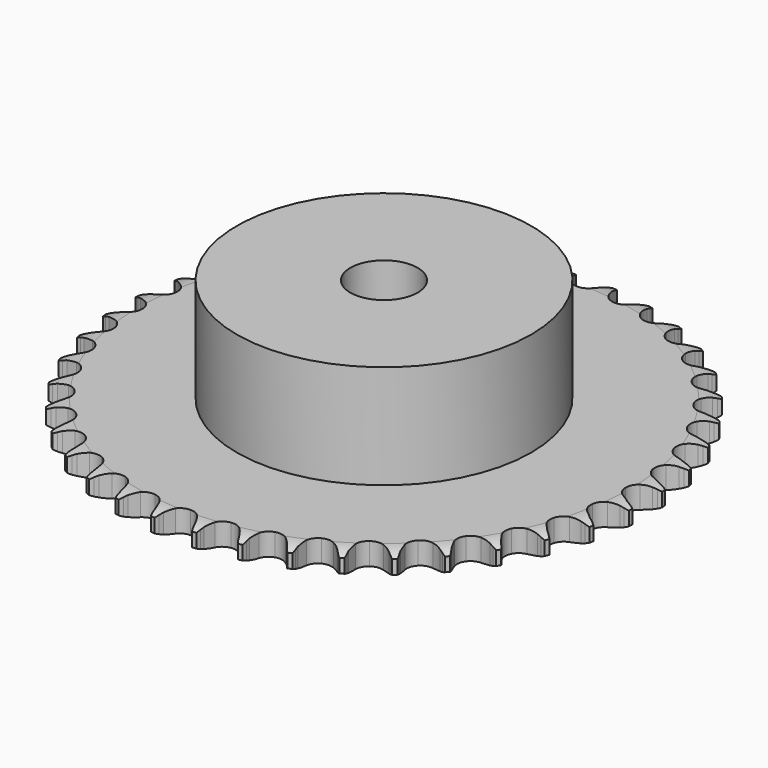
from build123d import *

# Parameters (mm, degrees)
PAD_DEPTH         = 5.3
SKETCH001_R       = 35
PAD001_DEPTH      = 30
SKETCH002_R       = 8
POCKET_DEPTH      = 0.001
POCKET_DEPTH_BACK = 30.001


with BuildPart() as part:
    # Sprocket → Pad (new body)
    with BuildSketch(Plane.XY):
        with BuildLine():
            ThreePointArc((-4.986853, 63.363969), (-4.438526, 62.600159), (-4.038812, 61.749103))
            Line((-4.038812, 61.749103), (-3.729238, 60.893914))
            ThreePointArc((-3.729238, 60.893914), (-3.239135, 59.795706), (-2.595634, 58.779751))
            ThreePointArc((-2.595634, 58.779751), (-1.453357, 57.817013), (0, 57.471444))
            ThreePointArc((0, 57.471444), (1.453357, 57.817013), (2.595634, 58.779751))
            ThreePointArc((2.595634, 58.779751), (3.239135, 59.795706), (3.729238, 60.893914))
            Line((3.729238, 60.893914), (4.038812, 61.749103))
            ThreePointArc((4.038812, 61.749103), (4.438526, 62.600159), (4.986853, 63.363969))
            ThreePointArc((4.986853, 63.363969), (5.408942, 62.523786), (5.670601, 61.620678))
            Line((5.670601, 61.620678), (5.842582, 60.72759))
            ThreePointArc((5.842582, 60.72759), (6.154853, 59.566235), (6.631502, 58.462122))
            ThreePointArc((6.631502, 58.462122), (7.60911, 57.332544), (8.990515, 56.763875))
            ThreePointArc((8.990515, 56.763875), (10.480037, 56.877834), (11.758856, 57.650028))
            Line((11.758856, 57.650028), (13.209231, 59.560827))
            ThreePointArc((13.209231, 59.560827), (13.418101, 59.964962), (13.648775, 60.35706))
            ThreePointArc((13.648775, 60.35706), (14.176703, 61.135109), (14.837765, 61.803738))
            ThreePointArc((14.837765, 61.803738), (15.123224, 60.907869), (15.240384, 59.974948))
            Line((15.240384, 59.974948), (15.270538, 59.065951))
            ThreePointArc((15.270538, 59.065951), (15.397289, 57.870044), (15.695348, 56.70496))
            ThreePointArc((15.695348, 56.70496), (16.484215, 55.436358), (17.759653, 54.658591))
            ThreePointArc((17.759653, 54.658591), (19.248664, 54.538135), (20.632536, 55.100771))
            Line((20.632536, 55.100771), (22.36397, 56.761156))
            ThreePointArc((22.36397, 56.761156), (22.633488, 57.12764), (22.922661, 57.478825))
            ThreePointArc((22.922661, 57.478825), (23.565802, 58.164709), (24.323322, 58.721694))
            ThreePointArc((24.323322, 58.721694), (24.465122, 57.792199), (24.434898, 56.852436))
            Line((24.434898, 56.852436), (24.322483, 55.949913))
            ThreePointArc((24.322483, 55.949913), (24.260592, 54.748901), (24.372722, 53.551535))
            ThreePointArc((24.372722, 53.551535), (24.953424, 52.175145), (26.09149, 51.207432))
            ThreePointArc((26.09149, 51.207432), (27.543325, 50.855525), (28.998175, 51.194749))
            Line((28.998175, 51.194749), (30.968033, 52.563836))
            ThreePointArc((30.968033, 52.563836), (31.291565, 52.883647), (31.632114, 53.185271))
            ThreePointArc((31.632114, 53.185271), (32.374633, 53.762101), (33.209958, 54.193726))
            ThreePointArc((33.209958, 54.193726), (33.204607, 53.253493), (33.027745, 52.330028))
            Line((33.027745, 52.330028), (32.775528, 51.456202))
            ThreePointArc((32.775528, 51.456202), (32.526519, 50.279659), (32.449959, 49.079493))
            ThreePointArc((32.449959, 49.079493), (32.808197, 47.629207), (33.780867, 46.495375))
            ThreePointArc((33.780867, 46.495375), (35.159777, 45.920684), (36.649783, 46.028142))
            Line((36.649783, 46.028142), (38.809561, 47.07222))
            ThreePointArc((38.809561, 47.07222), (39.179138, 47.337482), (39.56268, 47.58212))
            ThreePointArc((39.56268, 47.58212), (40.386293, 48.035692), (41.278855, 48.33133))
            ThreePointArc((41.278855, 48.33133), (41.126485, 47.403509), (40.807338, 46.519081))
            Line((40.807338, 46.519081), (40.42153, 45.695469))
            ThreePointArc((40.42153, 45.695469), (39.991535, 44.572364), (39.728171, 43.398951))
            ThreePointArc((39.728171, 43.398951), (39.855123, 41.91048), (40.638448, 40.638448))
            ThreePointArc((40.638448, 40.638448), (41.91048, 39.855123), (43.398951, 39.728171))
            Line((43.398951, 39.728171), (45.695469, 40.42153))
            ThreePointArc((45.695469, 40.42153), (46.101992, 40.625712), (46.519081, 40.807338))
            ThreePointArc((46.519081, 40.807338), (47.403509, 41.126485), (48.33133, 41.278855))
            ThreePointArc((48.33133, 41.278855), (48.035692, 40.386293), (47.58212, 39.56268))
            Line((47.58212, 39.56268), (47.07222, 38.809561))
            ThreePointArc((47.07222, 38.809561), (46.471827, 37.76755), (46.028142, 36.649783))
            ThreePointArc((46.028142, 36.649783), (45.920684, 35.159777), (46.495375, 33.780867))
            ThreePointArc((46.495375, 33.780867), (47.629207, 32.808197), (49.079493, 32.449959))
            Line((49.079493, 32.449959), (51.456202, 32.775528))
            ThreePointArc((51.456202, 32.775528), (51.889661, 32.913601), (52.330028, 33.027745))
            ThreePointArc((52.330028, 33.027745), (53.253493, 33.204607), (54.193726, 33.209958))
            ThreePointArc((54.193726, 33.209958), (53.762101, 32.374633), (53.185271, 31.632114))
            Line((53.185271, 31.632114), (52.563836, 30.968033))
            ThreePointArc((52.563836, 30.968033), (51.807828, 30.032774), (51.194749, 28.998175))
            ThreePointArc((51.194749, 28.998175), (50.855525, 27.543325), (51.207432, 26.09149))
            ThreePointArc((51.207432, 26.09149), (52.175145, 24.953424), (53.551535, 24.372722))
            Line((53.551535, 24.372722), (55.949913, 24.322483))
            ThreePointArc((55.949913, 24.322483), (56.399635, 24.391049), (56.852436, 24.434898))
            ThreePointArc((56.852436, 24.434898), (57.792199, 24.465122), (58.721694, 24.323322))
            ThreePointArc((58.721694, 24.323322), (58.164709, 23.565802), (57.478825, 22.922661))
            Line((57.478825, 22.922661), (56.761156, 22.36397))
            ThreePointArc((56.761156, 22.36397), (55.868148, 21.55849), (55.100771, 20.632536))
            ThreePointArc((55.100771, 20.632536), (54.538135, 19.248664), (54.658591, 17.759653))
            ThreePointArc((54.658591, 17.759653), (55.436358, 16.484215), (56.70496, 15.695348))
            Line((56.70496, 15.695348), (59.065951, 15.270538))
            ThreePointArc((59.065951, 15.270538), (59.520863, 15.267908), (59.974948, 15.240384))
            ThreePointArc((59.974948, 15.240384), (60.907869, 15.123224), (61.803738, 14.837765))
            ThreePointArc((61.803738, 14.837765), (61.135109, 14.176703), (60.35706, 13.648775))
            Line((60.35706, 13.648775), (59.560827, 13.209231))
            ThreePointArc((59.560827, 13.209231), (58.55281, 12.553366), (57.650028, 11.758856))
            ThreePointArc((57.650028, 11.758856), (56.877834, 10.480037), (56.763875, 8.990515))
            ThreePointArc((56.763875, 8.990515), (57.332544, 7.60911), (58.462122, 6.631502))
            Line((58.462122, 6.631502), (60.72759, 5.842582))
            ThreePointArc((60.72759, 5.842582), (61.176489, 5.76882), (61.620678, 5.670601))
            ThreePointArc((61.620678, 5.670601), (62.523786, 5.408942), (63.363969, 4.986853))
            ThreePointArc((63.363969, 4.986853), (62.600159, 4.438526), (61.749103, 4.038812))
            Line((61.749103, 4.038812), (60.893914, 3.729238))
            ThreePointArc((60.893914, 3.729238), (59.795706, 3.239135), (58.779751, 2.595634))
            ThreePointArc((58.779751, 2.595634), (57.817013, 1.453357), (57.471444, 0))
            ThreePointArc((57.471444, 0), (57.817013, -1.453357), (58.779751, -2.595634))
            Line((58.779751, -2.595634), (60.893914, -3.729238))
            ThreePointArc((60.893914, -3.729238), (61.325747, -3.872315), (61.749103, -4.038812))
            ThreePointArc((61.749103, -4.038812), (62.600159, -4.438526), (63.363969, -4.986853))
            ThreePointArc((63.363969, -4.986853), (62.523786, -5.408942), (61.620678, -5.670601))
            Line((61.620678, -5.670601), (60.72759, -5.842582))
            ThreePointArc((60.72759, -5.842582), (59.566235, -6.154853), (58.462122, -6.631502))
            ThreePointArc((58.462122, -6.631502), (57.332544, -7.60911), (56.763875, -8.990515))
            ThreePointArc((56.763875, -8.990515), (56.877834, -10.480037), (57.650028, -11.758856))
            Line((57.650028, -11.758856), (59.560827, -13.209231))
            ThreePointArc((59.560827, -13.209231), (59.964962, -13.418101), (60.35706, -13.648775))
            ThreePointArc((60.35706, -13.648775), (61.135109, -14.176703), (61.803738, -14.837765))
            ThreePointArc((61.803738, -14.837765), (60.907869, -15.123224), (59.974948, -15.240384))
            Line((59.974948, -15.240384), (59.065951, -15.270538))
            ThreePointArc((59.065951, -15.270538), (57.870044, -15.397289), (56.70496, -15.695348))
            ThreePointArc((56.70496, -15.695348), (55.436358, -16.484215), (54.658591, -17.759653))
            ThreePointArc((54.658591, -17.759653), (54.538135, -19.248664), (55.100771, -20.632536))
            Line((55.100771, -20.632536), (56.761156, -22.36397))
            ThreePointArc((56.761156, -22.36397), (57.12764, -22.633488), (57.478825, -22.922661))
            ThreePointArc((57.478825, -22.922661), (58.164709, -23.565802), (58.721694, -24.323322))
            ThreePointArc((58.721694, -24.323322), (57.792199, -24.465122), (56.852436, -24.434898))
            Line((56.852436, -24.434898), (55.949913, -24.322483))
            ThreePointArc((55.949913, -24.322483), (54.748901, -24.260592), (53.551535, -24.372722))
            ThreePointArc((53.551535, -24.372722), (52.175145, -24.953424), (51.207432, -26.09149))
            ThreePointArc((51.207432, -26.09149), (50.855525, -27.543325), (51.194749, -28.998175))
            Line((51.194749, -28.998175), (52.563836, -30.968033))
            ThreePointArc((52.563836, -30.968033), (52.883647, -31.291565), (53.185271, -31.632114))
            ThreePointArc((53.185271, -31.632114), (53.762101, -32.374633), (54.193726, -33.209958))
            ThreePointArc((54.193726, -33.209958), (53.253493, -33.204607), (52.330028, -33.027745))
            Line((52.330028, -33.027745), (51.456202, -32.775528))
            ThreePointArc((51.456202, -32.775528), (50.279659, -32.526519), (49.079493, -32.449959))
            ThreePointArc((49.079493, -32.449959), (47.629207, -32.808197), (46.495375, -33.780867))
            ThreePointArc((46.495375, -33.780867), (45.920684, -35.159777), (46.028142, -36.649783))
            Line((46.028142, -36.649783), (47.07222, -38.809561))
            ThreePointArc((47.07222, -38.809561), (47.337482, -39.179138), (47.58212, -39.56268))
            ThreePointArc((47.58212, -39.56268), (48.035692, -40.386293), (48.33133, -41.278855))
            ThreePointArc((48.33133, -41.278855), (47.403509, -41.126485), (46.519081, -40.807338))
            Line((46.519081, -40.807338), (45.695469, -40.42153))
            ThreePointArc((45.695469, -40.42153), (44.572364, -39.991535), (43.398951, -39.728171))
            ThreePointArc((43.398951, -39.728171), (41.91048, -39.855123), (40.638448, -40.638448))
            ThreePointArc((40.638448, -40.638448), (39.855123, -41.91048), (39.728171, -43.398951))
            Line((39.728171, -43.398951), (40.42153, -45.695469))
            ThreePointArc((40.42153, -45.695469), (40.625712, -46.101992), (40.807338, -46.519081))
            ThreePointArc((40.807338, -46.519081), (41.126485, -47.403509), (41.278855, -48.33133))
            ThreePointArc((41.278855, -48.33133), (40.386293, -48.035692), (39.56268, -47.58212))
            Line((39.56268, -47.58212), (38.809561, -47.07222))
            ThreePointArc((38.809561, -47.07222), (37.76755, -46.471827), (36.649783, -46.028142))
            ThreePointArc((36.649783, -46.028142), (35.159777, -45.920684), (33.780867, -46.495375))
            ThreePointArc((33.780867, -46.495375), (32.808197, -47.629207), (32.449959, -49.079493))
            Line((32.449959, -49.079493), (32.775528, -51.456202))
            ThreePointArc((32.775528, -51.456202), (32.913601, -51.889661), (33.027745, -52.330028))
            ThreePointArc((33.027745, -52.330028), (33.204607, -53.253493), (33.209958, -54.193726))
            ThreePointArc((33.209958, -54.193726), (32.374633, -53.762101), (31.632114, -53.185271))
            Line((31.632114, -53.185271), (30.968033, -52.563836))
            ThreePointArc((30.968033, -52.563836), (30.032774, -51.807828), (28.998175, -51.194749))
            ThreePointArc((28.998175, -51.194749), (27.543325, -50.855525), (26.09149, -51.207432))
            ThreePointArc((26.09149, -51.207432), (24.953424, -52.175145), (24.372722, -53.551535))
            Line((24.372722, -53.551535), (24.322483, -55.949913))
            ThreePointArc((24.322483, -55.949913), (24.391049, -56.399635), (24.434898, -56.852436))
            ThreePointArc((24.434898, -56.852436), (24.465122, -57.792199), (24.323322, -58.721694))
            ThreePointArc((24.323322, -58.721694), (23.565802, -58.164709), (22.922661, -57.478825))
            Line((22.922661, -57.478825), (22.36397, -56.761156))
            ThreePointArc((22.36397, -56.761156), (21.55849, -55.868148), (20.632536, -55.100771))
            ThreePointArc((20.632536, -55.100771), (19.248664, -54.538135), (17.759653, -54.658591))
            ThreePointArc((17.759653, -54.658591), (16.484215, -55.436358), (15.695348, -56.70496))
            Line((15.695348, -56.70496), (15.270538, -59.065951))
            ThreePointArc((15.270538, -59.065951), (15.267908, -59.520863), (15.240384, -59.974948))
            ThreePointArc((15.240384, -59.974948), (15.123224, -60.907869), (14.837765, -61.803738))
            ThreePointArc((14.837765, -61.803738), (14.176703, -61.135109), (13.648775, -60.35706))
            Line((13.648775, -60.35706), (13.209231, -59.560827))
            ThreePointArc((13.209231, -59.560827), (12.553366, -58.55281), (11.758856, -57.650028))
            ThreePointArc((11.758856, -57.650028), (10.480037, -56.877834), (8.990515, -56.763875))
            ThreePointArc((8.990515, -56.763875), (7.60911, -57.332544), (6.631502, -58.462122))
            Line((6.631502, -58.462122), (5.842582, -60.72759))
            ThreePointArc((5.842582, -60.72759), (5.76882, -61.176489), (5.670601, -61.620678))
            ThreePointArc((5.670601, -61.620678), (5.408942, -62.523786), (4.986853, -63.363969))
            ThreePointArc((4.986853, -63.363969), (4.438526, -62.600159), (4.038812, -61.749103))
            Line((4.038812, -61.749103), (3.729238, -60.893914))
            ThreePointArc((3.729238, -60.893914), (3.239135, -59.795706), (2.595634, -58.779751))
            ThreePointArc((2.595634, -58.779751), (1.453357, -57.817013), (0, -57.471444))
            ThreePointArc((0, -57.471444), (-1.453357, -57.817013), (-2.595634, -58.779751))
            Line((-2.595634, -58.779751), (-3.729238, -60.893914))
            ThreePointArc((-3.729238, -60.893914), (-3.872315, -61.325747), (-4.038812, -61.749103))
            ThreePointArc((-4.038812, -61.749103), (-4.438526, -62.600159), (-4.986853, -63.363969))
            ThreePointArc((-4.986853, -63.363969), (-5.408942, -62.523786), (-5.670601, -61.620678))
            Line((-5.670601, -61.620678), (-5.842582, -60.72759))
            ThreePointArc((-5.842582, -60.72759), (-6.154853, -59.566235), (-6.631502, -58.462122))
            ThreePointArc((-6.631502, -58.462122), (-7.60911, -57.332544), (-8.990515, -56.763875))
            ThreePointArc((-8.990515, -56.763875), (-10.480037, -56.877834), (-11.758856, -57.650028))
            Line((-11.758856, -57.650028), (-13.209231, -59.560827))
            ThreePointArc((-13.209231, -59.560827), (-13.418101, -59.964962), (-13.648775, -60.35706))
            ThreePointArc((-13.648775, -60.35706), (-14.176703, -61.135109), (-14.837765, -61.803738))
            ThreePointArc((-14.837765, -61.803738), (-15.123224, -60.907869), (-15.240384, -59.974948))
            Line((-15.240384, -59.974948), (-15.270538, -59.065951))
            ThreePointArc((-15.270538, -59.065951), (-15.397289, -57.870044), (-15.695348, -56.70496))
            ThreePointArc((-15.695348, -56.70496), (-16.484215, -55.436358), (-17.759653, -54.658591))
            ThreePointArc((-17.759653, -54.658591), (-19.248664, -54.538135), (-20.632536, -55.100771))
            Line((-20.632536, -55.100771), (-22.36397, -56.761156))
            ThreePointArc((-22.36397, -56.761156), (-22.633488, -57.12764), (-22.922661, -57.478825))
            ThreePointArc((-22.922661, -57.478825), (-23.565802, -58.164709), (-24.323322, -58.721694))
            ThreePointArc((-24.323322, -58.721694), (-24.465122, -57.792199), (-24.434898, -56.852436))
            Line((-24.434898, -56.852436), (-24.322483, -55.949913))
            ThreePointArc((-24.322483, -55.949913), (-24.260592, -54.748901), (-24.372722, -53.551535))
            ThreePointArc((-24.372722, -53.551535), (-24.953424, -52.175145), (-26.09149, -51.207432))
            ThreePointArc((-26.09149, -51.207432), (-27.543325, -50.855525), (-28.998175, -51.194749))
            Line((-28.998175, -51.194749), (-30.968033, -52.563836))
            ThreePointArc((-30.968033, -52.563836), (-31.291565, -52.883647), (-31.632114, -53.185271))
            ThreePointArc((-31.632114, -53.185271), (-32.374633, -53.762101), (-33.209958, -54.193726))
            ThreePointArc((-33.209958, -54.193726), (-33.204607, -53.253493), (-33.027745, -52.330028))
            Line((-33.027745, -52.330028), (-32.775528, -51.456202))
            ThreePointArc((-32.775528, -51.456202), (-32.526519, -50.279659), (-32.449959, -49.079493))
            ThreePointArc((-32.449959, -49.079493), (-32.808197, -47.629207), (-33.780867, -46.495375))
            ThreePointArc((-33.780867, -46.495375), (-35.159777, -45.920684), (-36.649783, -46.028142))
            Line((-36.649783, -46.028142), (-38.809561, -47.07222))
            ThreePointArc((-38.809561, -47.07222), (-39.179138, -47.337482), (-39.56268, -47.58212))
            ThreePointArc((-39.56268, -47.58212), (-40.386293, -48.035692), (-41.278855, -48.33133))
            ThreePointArc((-41.278855, -48.33133), (-41.126485, -47.403509), (-40.807338, -46.519081))
            Line((-40.807338, -46.519081), (-40.42153, -45.695469))
            ThreePointArc((-40.42153, -45.695469), (-39.991535, -44.572364), (-39.728171, -43.398951))
            ThreePointArc((-39.728171, -43.398951), (-39.855123, -41.91048), (-40.638448, -40.638448))
            ThreePointArc((-40.638448, -40.638448), (-41.91048, -39.855123), (-43.398951, -39.728171))
            Line((-43.398951, -39.728171), (-45.695469, -40.42153))
            ThreePointArc((-45.695469, -40.42153), (-46.101992, -40.625712), (-46.519081, -40.807338))
            ThreePointArc((-46.519081, -40.807338), (-47.403509, -41.126485), (-48.33133, -41.278855))
            ThreePointArc((-48.33133, -41.278855), (-48.035692, -40.386293), (-47.58212, -39.56268))
            Line((-47.58212, -39.56268), (-47.07222, -38.809561))
            ThreePointArc((-47.07222, -38.809561), (-46.471827, -37.76755), (-46.028142, -36.649783))
            ThreePointArc((-46.028142, -36.649783), (-45.920684, -35.159777), (-46.495375, -33.780867))
            ThreePointArc((-46.495375, -33.780867), (-47.629207, -32.808197), (-49.079493, -32.449959))
            Line((-49.079493, -32.449959), (-51.456202, -32.775528))
            ThreePointArc((-51.456202, -32.775528), (-51.889661, -32.913601), (-52.330028, -33.027745))
            ThreePointArc((-52.330028, -33.027745), (-53.253493, -33.204607), (-54.193726, -33.209958))
            ThreePointArc((-54.193726, -33.209958), (-53.762101, -32.374633), (-53.185271, -31.632114))
            Line((-53.185271, -31.632114), (-52.563836, -30.968033))
            ThreePointArc((-52.563836, -30.968033), (-51.807828, -30.032774), (-51.194749, -28.998175))
            ThreePointArc((-51.194749, -28.998175), (-50.855525, -27.543325), (-51.207432, -26.09149))
            ThreePointArc((-51.207432, -26.09149), (-52.175145, -24.953424), (-53.551535, -24.372722))
            Line((-53.551535, -24.372722), (-55.949913, -24.322483))
            ThreePointArc((-55.949913, -24.322483), (-56.399635, -24.391049), (-56.852436, -24.434898))
            ThreePointArc((-56.852436, -24.434898), (-57.792199, -24.465122), (-58.721694, -24.323322))
            ThreePointArc((-58.721694, -24.323322), (-58.164709, -23.565802), (-57.478825, -22.922661))
            Line((-57.478825, -22.922661), (-56.761156, -22.36397))
            ThreePointArc((-56.761156, -22.36397), (-55.868148, -21.55849), (-55.100771, -20.632536))
            ThreePointArc((-55.100771, -20.632536), (-54.538135, -19.248664), (-54.658591, -17.759653))
            ThreePointArc((-54.658591, -17.759653), (-55.436358, -16.484215), (-56.70496, -15.695348))
            Line((-56.70496, -15.695348), (-59.065951, -15.270538))
            ThreePointArc((-59.065951, -15.270538), (-59.520863, -15.267908), (-59.974948, -15.240384))
            ThreePointArc((-59.974948, -15.240384), (-60.907869, -15.123224), (-61.803738, -14.837765))
            ThreePointArc((-61.803738, -14.837765), (-61.135109, -14.176703), (-60.35706, -13.648775))
            Line((-60.35706, -13.648775), (-59.560827, -13.209231))
            ThreePointArc((-59.560827, -13.209231), (-58.55281, -12.553366), (-57.650028, -11.758856))
            ThreePointArc((-57.650028, -11.758856), (-56.877834, -10.480037), (-56.763875, -8.990515))
            ThreePointArc((-56.763875, -8.990515), (-57.332544, -7.60911), (-58.462122, -6.631502))
            Line((-58.462122, -6.631502), (-60.72759, -5.842582))
            ThreePointArc((-60.72759, -5.842582), (-61.176489, -5.76882), (-61.620678, -5.670601))
            ThreePointArc((-61.620678, -5.670601), (-62.523786, -5.408942), (-63.363969, -4.986853))
            ThreePointArc((-63.363969, -4.986853), (-62.600159, -4.438526), (-61.749103, -4.038812))
            Line((-61.749103, -4.038812), (-60.893914, -3.729238))
            ThreePointArc((-60.893914, -3.729238), (-59.795706, -3.239135), (-58.779751, -2.595634))
            ThreePointArc((-58.779751, -2.595634), (-57.817013, -1.453357), (-57.471444, 0))
            ThreePointArc((-57.471444, 0), (-57.817013, 1.453357), (-58.779751, 2.595634))
            Line((-58.779751, 2.595634), (-60.893914, 3.729238))
            ThreePointArc((-60.893914, 3.729238), (-61.325747, 3.872315), (-61.749103, 4.038812))
            ThreePointArc((-61.749103, 4.038812), (-62.600159, 4.438526), (-63.363969, 4.986853))
            ThreePointArc((-63.363969, 4.986853), (-62.523786, 5.408942), (-61.620678, 5.670601))
            Line((-61.620678, 5.670601), (-60.72759, 5.842582))
            ThreePointArc((-60.72759, 5.842582), (-59.566235, 6.154853), (-58.462122, 6.631502))
            ThreePointArc((-58.462122, 6.631502), (-57.332544, 7.60911), (-56.763875, 8.990515))
            ThreePointArc((-56.763875, 8.990515), (-56.877834, 10.480037), (-57.650028, 11.758856))
            Line((-57.650028, 11.758856), (-59.560827, 13.209231))
            ThreePointArc((-59.560827, 13.209231), (-59.964962, 13.418101), (-60.35706, 13.648775))
            ThreePointArc((-60.35706, 13.648775), (-61.135109, 14.176703), (-61.803738, 14.837765))
            ThreePointArc((-61.803738, 14.837765), (-60.907869, 15.123224), (-59.974948, 15.240384))
            Line((-59.974948, 15.240384), (-59.065951, 15.270538))
            ThreePointArc((-59.065951, 15.270538), (-57.870044, 15.397289), (-56.70496, 15.695348))
            ThreePointArc((-56.70496, 15.695348), (-55.436358, 16.484215), (-54.658591, 17.759653))
            ThreePointArc((-54.658591, 17.759653), (-54.538135, 19.248664), (-55.100771, 20.632536))
            Line((-55.100771, 20.632536), (-56.761156, 22.36397))
            ThreePointArc((-56.761156, 22.36397), (-57.12764, 22.633488), (-57.478825, 22.922661))
            ThreePointArc((-57.478825, 22.922661), (-58.164709, 23.565802), (-58.721694, 24.323322))
            ThreePointArc((-58.721694, 24.323322), (-57.792199, 24.465122), (-56.852436, 24.434898))
            Line((-56.852436, 24.434898), (-55.949913, 24.322483))
            ThreePointArc((-55.949913, 24.322483), (-54.748901, 24.260592), (-53.551535, 24.372722))
            ThreePointArc((-53.551535, 24.372722), (-52.175145, 24.953424), (-51.207432, 26.09149))
            ThreePointArc((-51.207432, 26.09149), (-50.855525, 27.543325), (-51.194749, 28.998175))
            Line((-51.194749, 28.998175), (-52.563836, 30.968033))
            ThreePointArc((-52.563836, 30.968033), (-52.883647, 31.291565), (-53.185271, 31.632114))
            ThreePointArc((-53.185271, 31.632114), (-53.762101, 32.374633), (-54.193726, 33.209958))
            ThreePointArc((-54.193726, 33.209958), (-53.253493, 33.204607), (-52.330028, 33.027745))
            Line((-52.330028, 33.027745), (-51.456202, 32.775528))
            ThreePointArc((-51.456202, 32.775528), (-50.279659, 32.526519), (-49.079493, 32.449959))
            ThreePointArc((-49.079493, 32.449959), (-47.629207, 32.808197), (-46.495375, 33.780867))
            ThreePointArc((-46.495375, 33.780867), (-45.920684, 35.159777), (-46.028142, 36.649783))
            Line((-46.028142, 36.649783), (-47.07222, 38.809561))
            ThreePointArc((-47.07222, 38.809561), (-47.337482, 39.179138), (-47.58212, 39.56268))
            ThreePointArc((-47.58212, 39.56268), (-48.035692, 40.386293), (-48.33133, 41.278855))
            ThreePointArc((-48.33133, 41.278855), (-47.403509, 41.126485), (-46.519081, 40.807338))
            Line((-46.519081, 40.807338), (-45.695469, 40.42153))
            ThreePointArc((-45.695469, 40.42153), (-44.572364, 39.991535), (-43.398951, 39.728171))
            ThreePointArc((-43.398951, 39.728171), (-41.91048, 39.855123), (-40.638448, 40.638448))
            ThreePointArc((-40.638448, 40.638448), (-39.855123, 41.91048), (-39.728171, 43.398951))
            Line((-39.728171, 43.398951), (-40.42153, 45.695469))
            ThreePointArc((-40.42153, 45.695469), (-40.625712, 46.101992), (-40.807338, 46.519081))
            ThreePointArc((-40.807338, 46.519081), (-41.126485, 47.403509), (-41.278855, 48.33133))
            ThreePointArc((-41.278855, 48.33133), (-40.386293, 48.035692), (-39.56268, 47.58212))
            Line((-39.56268, 47.58212), (-38.809561, 47.07222))
            ThreePointArc((-38.809561, 47.07222), (-37.76755, 46.471827), (-36.649783, 46.028142))
            ThreePointArc((-36.649783, 46.028142), (-35.159777, 45.920684), (-33.780867, 46.495375))
            ThreePointArc((-33.780867, 46.495375), (-32.808197, 47.629207), (-32.449959, 49.079493))
            Line((-32.449959, 49.079493), (-32.775528, 51.456202))
            ThreePointArc((-32.775528, 51.456202), (-32.913601, 51.889661), (-33.027745, 52.330028))
            ThreePointArc((-33.027745, 52.330028), (-33.204607, 53.253493), (-33.209958, 54.193726))
            ThreePointArc((-33.209958, 54.193726), (-32.374633, 53.762101), (-31.632114, 53.185271))
            Line((-31.632114, 53.185271), (-30.968033, 52.563836))
            ThreePointArc((-30.968033, 52.563836), (-30.032774, 51.807828), (-28.998175, 51.194749))
            ThreePointArc((-28.998175, 51.194749), (-27.543325, 50.855525), (-26.09149, 51.207432))
            ThreePointArc((-26.09149, 51.207432), (-24.953424, 52.175145), (-24.372722, 53.551535))
            Line((-24.372722, 53.551535), (-24.322483, 55.949913))
            ThreePointArc((-24.322483, 55.949913), (-24.391049, 56.399635), (-24.434898, 56.852436))
            ThreePointArc((-24.434898, 56.852436), (-24.465122, 57.792199), (-24.323322, 58.721694))
            ThreePointArc((-24.323322, 58.721694), (-23.565802, 58.164709), (-22.922661, 57.478825))
            Line((-22.922661, 57.478825), (-22.36397, 56.761156))
            ThreePointArc((-22.36397, 56.761156), (-21.55849, 55.868148), (-20.632536, 55.100771))
            ThreePointArc((-20.632536, 55.100771), (-19.248664, 54.538135), (-17.759653, 54.658591))
            ThreePointArc((-17.759653, 54.658591), (-16.484215, 55.436358), (-15.695348, 56.70496))
            Line((-15.695348, 56.70496), (-15.270538, 59.065951))
            ThreePointArc((-15.270538, 59.065951), (-15.267908, 59.520863), (-15.240384, 59.974948))
            ThreePointArc((-15.240384, 59.974948), (-15.123224, 60.907869), (-14.837765, 61.803738))
            ThreePointArc((-14.837765, 61.803738), (-14.176703, 61.135109), (-13.648775, 60.35706))
            Line((-13.648775, 60.35706), (-13.209231, 59.560827))
            ThreePointArc((-13.209231, 59.560827), (-12.553366, 58.55281), (-11.758856, 57.650028))
            ThreePointArc((-11.758856, 57.650028), (-10.480037, 56.877834), (-8.990515, 56.763875))
            ThreePointArc((-8.990515, 56.763875), (-7.60911, 57.332544), (-6.631502, 58.462122))
            Line((-6.631502, 58.462122), (-5.842582, 60.72759))
            ThreePointArc((-5.842582, 60.72759), (-5.76882, 61.176489), (-5.670601, 61.620678))
            ThreePointArc((-5.670601, 61.620678), (-5.408942, 62.523786), (-4.986853, 63.363969))
        make_face()
    extrude(amount=PAD_DEPTH)

    # Sketch → Groove (revolve, cut)
    with BuildSketch(Plane.XZ):
        with BuildLine():
            Line((58.391101, 0), (62.75, 0))
            Line((67.108899, 0), (62.75, 0))
            Line((67.108899, 5.3), (67.108899, 0))
            Line((62.75, 5.3), (67.108899, 5.3))
            Line((58.391101, 5.3), (62.75, 5.3))
            ThreePointArc((62.75, 4.3), (60.627169, 5.046794), (58.391101, 5.3))
            Line((62.75, 1), (62.75, 4.3))
            ThreePointArc((58.391101, 0), (60.627169, 0.253206), (62.75, 1))
        make_face()
    revolve(axis=Axis((0, 0, 0), (0, 0, 1)), mode=Mode.SUBTRACT)

    # Sketch001 → Pad001 (join)
    with BuildSketch(Plane.XY):
        Circle(SKETCH001_R)
    extrude(amount=PAD001_DEPTH)

    # Sketch002 → Pocket (cut, two sides)
    with BuildSketch(Plane.XY) as pocket_sk:
        Circle(SKETCH002_R)
    extrude(amount=-POCKET_DEPTH, mode=Mode.SUBTRACT)
    extrude(pocket_sk.sketch, amount=POCKET_DEPTH_BACK, mode=Mode.SUBTRACT)


solid = part.part
